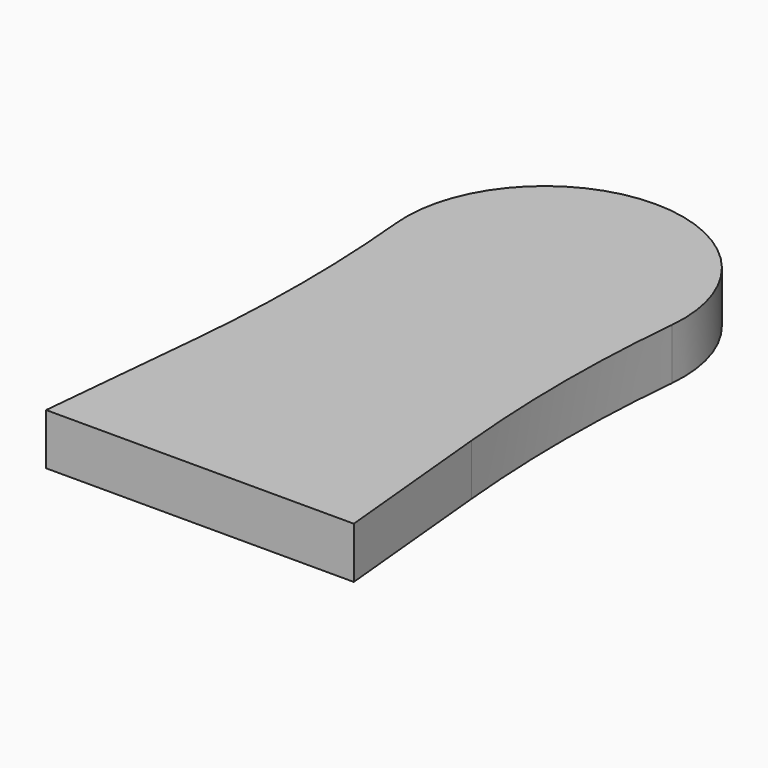
from build123d import *

# Parameters (mm, degrees)
PAD_DEPTH = 1


with BuildPart() as part:
    # Sketch → Pad (new body)
    with BuildSketch(Plane.XY):
        with BuildLine():
            Line((3, 0), (-3, 0))
            Line((-3, 0), (-2.687676, 3.257676))
            ThreePointArc((-2.687676, 3.257676), (-2.570867, 5.7), (-2.687676, 8.142324))
            ThreePointArc((2.687676, 8.142324), (0, 11.1), (-2.687676, 8.142324))
            ThreePointArc((2.687676, 8.142324), (2.570867, 5.7), (2.687676, 3.257676))
            Line((3, 0), (2.687676, 3.257676))
        make_face()
    extrude(amount=PAD_DEPTH)


solid = part.part
